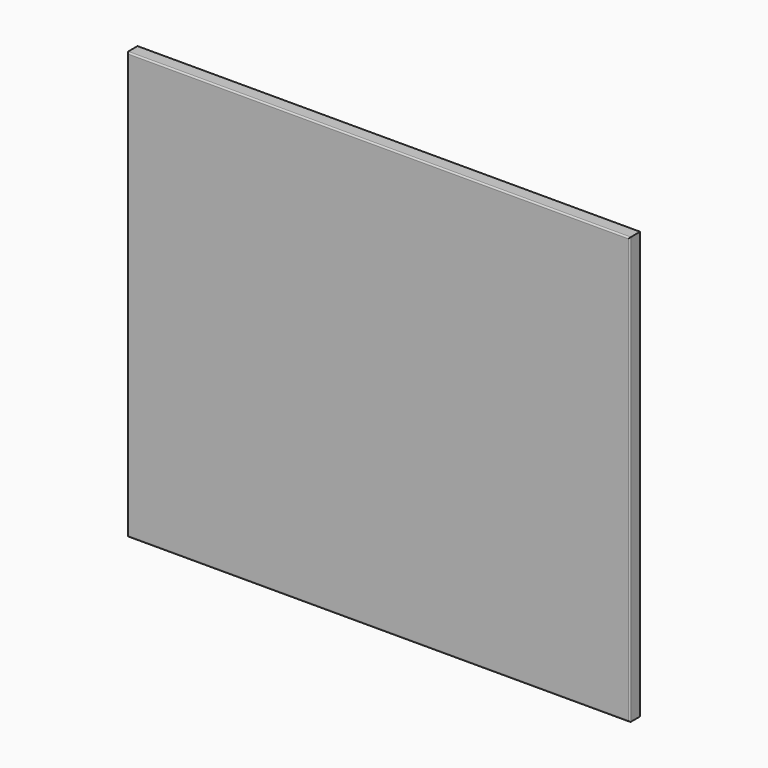
from build123d import *

# Parameters (mm, degrees)
F0_W     = 53.3562451601
F0_H     = 46.8972101808
F1_DEPTH = 18
F2_DEPTH = 696
F3_DEPTH = 596
F4_DEPTH = 5
F5_R     = 2


with BuildPart() as f1:
    # F0 (on Front) → F1 (new body)
    with BuildSketch(Plane.XZ):
        with Locations((26.6781225801, 23.4486050904)):
            Rectangle(F0_W, F0_H)
    extrude(amount=F1_DEPTH)

    # F2 (add): a face of the model
    f2_faces = [f1.faces().sort_by_distance(p)[0] for p in [
        (0, -9, 23.4486050904),
    ]]
    extrude(f2_faces, amount=-F2_DEPTH)

    # F3 (add): a face of the model
    f3_faces = [f1.faces().sort_by_distance(p)[0] for p in [
        (348, -9, 0),
    ]]
    extrude(f3_faces, amount=-F3_DEPTH)

    # F4 (cut): a face of the model
    f4_faces = [f1.faces().sort_by_distance(p)[0] for p in [
        (348, -9, 596),
    ]]
    extrude(f4_faces, amount=-F4_DEPTH, mode=Mode.SUBTRACT)

    # F5
    f5_edges = [f1.edges().sort_by_distance(p)[0] for p in [
        (0, -18, 295.5),
        (348, -18, 591),
        (696, -18, 295.5),
        (348, -18, 0),
    ]]
    fillet(f5_edges, radius=F5_R)


solid = f1.part
